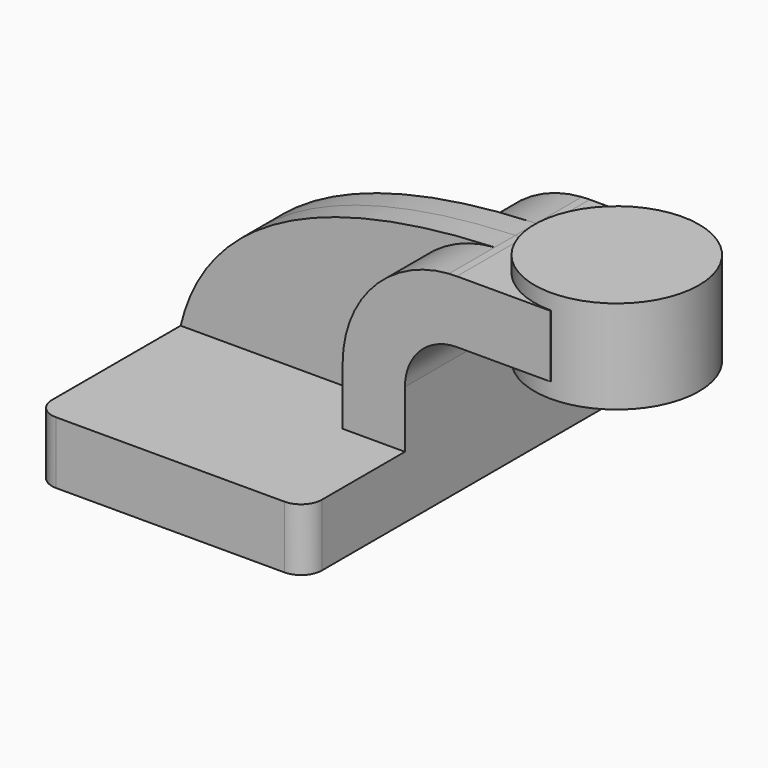
from build123d import *

# Parameters (mm, degrees)
F1_DEPTH = 63.5
F2_DEPTH = 25.4
F3_DEPTH = 7.9375
F0_W     = 25.6498904824
F0_H     = 19.05
F4_DEPTH = 25.4
F6_R     = 6.35


with BuildPart() as f1:
    # F0 (on Front) → F1 (new body, symmetric)
    with BuildSketch(Plane.XZ):
        Polygon((41.275, -9.525), (41.275, 9.525), (22.225, 9.525), (-41.275, 9.525), (-41.275, -9.525), align=None)
    extrude(amount=F1_DEPTH, both=True)

    # F0 (on Front) → F2 (join, symmetric)
    with BuildSketch(Plane.XZ):
        with BuildLine():
            Line((22.225, 9.525), (41.275, 9.525))
            Line((41.275, 9.525), (41.275, 27.0002))
            ThreePointArc((41.275, 27.0002), (45.9246798487, 38.2255201513), (57.15, 42.8752))
            Line((57.15, 42.8752), (60.0751095176, 42.8752))
            Line((60.0751095176, 42.8752), (60.0751095176, 61.9252))
            Line((60.0751095176, 61.9252), (57.15, 61.9252))
            add(Edge.make_bspline(
                [(57.15, 61.9252), (56.3562246921, 61.9012944132), (55.5537204814, 61.8737200554), (54.7431620422, 61.8421683147)],
                knots=[0, 0, 0, 0, 2.5014710885, 2.5014710885, 2.5014710885, 2.5014710885], degree=3))
            ThreePointArc((54.7431620422, 61.8421683147), (31.617526161, 50.8297699639), (22.225, 27.0002))
            Line((22.225, 27.0002), (22.225, 9.525))
        make_face()
    extrude(amount=F2_DEPTH, both=True)

    # F0 (on Front) → F3 (join, symmetric)
    with BuildSketch(Plane.XZ):
        with BuildLine():
            Line((-41.275, 9.525), (22.225, 9.525))
            Line((22.225, 9.525), (22.225, 27.0002))
            ThreePointArc((22.225, 27.0002), (31.617526161, 50.8297699639), (54.7431620422, 61.8421683147))
            add(Edge.make_bspline(
                [(54.7431620422, 61.8421683147), (19.4226041922, 60.4672827696), (-31.1915768934, 51.5400171012), (-41.275, 9.525)],
                knots=[2.5014710885, 2.5014710885, 2.5014710885, 2.5014710885, 111.5045361635, 111.5045361635, 111.5045361635, 111.5045361635], degree=3))
        make_face()
    extrude(amount=F3_DEPTH, both=True)

    # F0 (on Front) → F4 (join, symmetric)
    with BuildSketch(Plane.XZ):
        with Locations((72.9000547588, 52.4002)):
            Rectangle(F0_W, F0_H)
    extrude(amount=F4_DEPTH, both=True)

    # F0 (on Front) → F5 (revolve)
    with BuildSketch(Plane.XZ):
        Polygon((85.725, 61.9252), (85.725, 42.8752), (85.725, 38.1), (110.8751095176, 38.1), (110.8751095176, 66.675), (85.725, 66.675), align=None)
    revolve(axis=Axis((85.725, 0, 52.3875), (0, 0, -1)))

    # F6
    f6_edges = [f1.edges().sort_by_distance(p)[0] for p in [
        (41.275, -63.5, 0),
        (-41.275, -63.5, 0),
        (41.275, 63.5, 0),
        (-41.275, 63.5, 0),
    ]]
    fillet(f6_edges, radius=F6_R)


solid = f1.part
